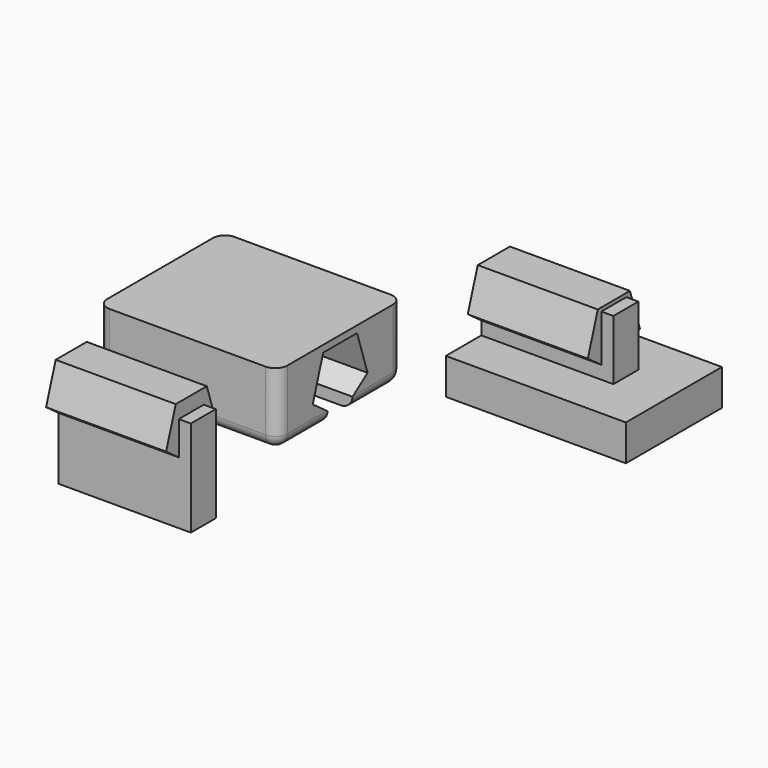
from build123d import *

# Parameters (mm, degrees)
BOX004_W                   = 11
BOX004_H                   = 2.6
BOX004_DEPTH               = 8
EXTRUDE003_DEPTH           = 10
EXTRUDE003_PLACEMENT_ANGLE = 90
BOX005_W                   = 15
BOX005_H                   = 10
BOX005_DEPTH               = 3
BOX002_W                   = 11
BOX002_H                   = 2.6
BOX002_DEPTH               = 8
EXTRUDE001_DEPTH           = 10
EXTRUDE001_PLACEMENT_ANGLE = 90
BOX003_W                   = 11
BOX003_H                   = 2.6
BOX003_DEPTH               = 8
EXTRUDE002_DEPTH           = 10
EXTRUDE002_PLACEMENT_ANGLE = 90
BOX_W                      = 15
BOX_H                      = 13
BOX_DEPTH                  = 6
FILLET_R                   = 1
CUT_PLACEMENT_ANGLE        = 180


with BuildPart() as cube004:
    # Box004 → Box004 (new body)
    with BuildSketch(Plane(origin=(0, 5.7, -4), x_dir=(1, 0, 0), z_dir=(0, 0, 1))):
        with Locations((5.5, 1.3)):
            Rectangle(BOX004_W, BOX004_H)
    extrude(amount=BOX004_DEPTH)


with BuildPart() as keymaster:
    # RegularPolygon003 → Extrude003 (new body)
    with BuildSketch(Plane(origin=(-2.737398, 7, 0), x_dir=(0, 1, 0), z_dir=(0, 0, 1))):
        Polygon((0, -2.487398), (2.615405, -0.587195), (1.616409, 2.487398), (-1.616409, 2.487398), (-2.615405, -0.587195), align=None)
    extrude(amount=EXTRUDE003_DEPTH)


with BuildPart() as keymaster_1:
    # Extrude003 placement: moved
    add(keymaster.part.rotate(Axis((0, 0, 0), (0, 1, 0)), EXTRUDE003_PLACEMENT_ANGLE))

    # Fusion003: union Cube004
    add(cube004.part)


with BuildPart() as keymaster_2:
    # Fusion003 placement: moved
    add(keymaster_1.part.moved(Location((-12, -28, 1))))


with BuildPart() as cube005:
    # Box005 → Box005 (new body)
    with BuildSketch(Plane(origin=(0, 3, -3), x_dir=(1, 0, 0), z_dir=(0, 0, 1))):
        with Locations((7.5, 5)):
            Rectangle(BOX005_W, BOX005_H)
    extrude(amount=BOX005_DEPTH)


with BuildPart() as cube002:
    # Box002 → Box002 (new body)
    with BuildSketch(Plane(origin=(0, 5.7, -3), x_dir=(1, 0, 0), z_dir=(0, 0, 1))):
        with Locations((5.5, 1.3)):
            Rectangle(BOX002_W, BOX002_H)
    extrude(amount=BOX002_DEPTH)


with BuildPart() as keypart_test:
    # RegularPolygon001 → Extrude001 (new body)
    with BuildSketch(Plane(origin=(-2.727849, 7, 0), x_dir=(0, 1, 0), z_dir=(0, 0, 1))):
        Polygon((0, -2.577849), (2.710511, -0.608548), (1.675188, 2.577849), (-1.675188, 2.577849), (-2.710511, -0.608548), align=None)
    extrude(amount=EXTRUDE001_DEPTH)


with BuildPart() as keypart_test_1:
    # Extrude001 placement: moved
    add(keypart_test.part.rotate(Axis((0, 0, 0), (0, 1, 0)), EXTRUDE001_PLACEMENT_ANGLE))

    # Fusion001: union Cube002
    add(cube002.part)


with BuildPart() as keypart_test_2:
    # Fusion001 placement: moved
    add(keypart_test_1.part.moved(Location((0, 1, 0))))

    # Fusion: union Cube005
    add(cube005.part)


with BuildPart() as cube003:
    # Box003 → Box003 (new body)
    with BuildSketch(Plane(origin=(0, 5.7, -4), x_dir=(1, 0, 0), z_dir=(0, 0, 1))):
        with Locations((5.5, 1.3)):
            Rectangle(BOX003_W, BOX003_H)
    extrude(amount=BOX003_DEPTH)


with BuildPart() as key001:
    # RegularPolygon002 → Extrude002 (new body)
    with BuildSketch(Plane(origin=(-2.713525, 7, 0), x_dir=(0, 1, 0), z_dir=(0, 0, 1))):
        Polygon((0, -2.713525), (2.85317, -0.640576), (1.763356, 2.713525), (-1.763356, 2.713525), (-2.85317, -0.640576), align=None)
    extrude(amount=EXTRUDE002_DEPTH)


with BuildPart() as key001_1:
    # Extrude002 placement: moved
    add(key001.part.rotate(Axis((0, 0, 0), (0, 1, 0)), EXTRUDE002_PLACEMENT_ANGLE))

    # Fusion002: union Cube003
    add(cube003.part)


with BuildPart() as key001_2:
    # Fusion002 placement: moved
    add(key001_1.part.moved(Location((0, 1, 0))))


with BuildPart() as cut:
    # Box → Box (new body)
    with BuildSketch(Plane(origin=(0, 1.5, 0), x_dir=(1, 0, 0), z_dir=(0, 0, 1))):
        with Locations((7.5, 6.5)):
            Rectangle(BOX_W, BOX_H)
    extrude(amount=BOX_DEPTH)

    # Fillet
    fillet_edges = [cut.edges().sort_by_distance(p)[0] for p in [
        (0, 1.5, 3),
        (0, 14.5, 3),
        (0, 8, 0),
        (15, 1.5, 3),
        (15, 14.5, 3),
        (15, 8, 0),
        (7.5, 1.5, 0),
        (7.5, 14.5, 0),
    ]]
    fillet(fillet_edges, radius=FILLET_R)

    # Cut: cut key001
    add(key001_2.part, mode=Mode.SUBTRACT)


with BuildPart() as cut_1:
    # Cut placement: moved
    add(cut.part.rotate(Axis((0, 0, 0), (0, 0, 1)), CUT_PLACEMENT_ANGLE))


solid = Compound([keymaster_2.part, keypart_test_2.part, cut_1.part])
